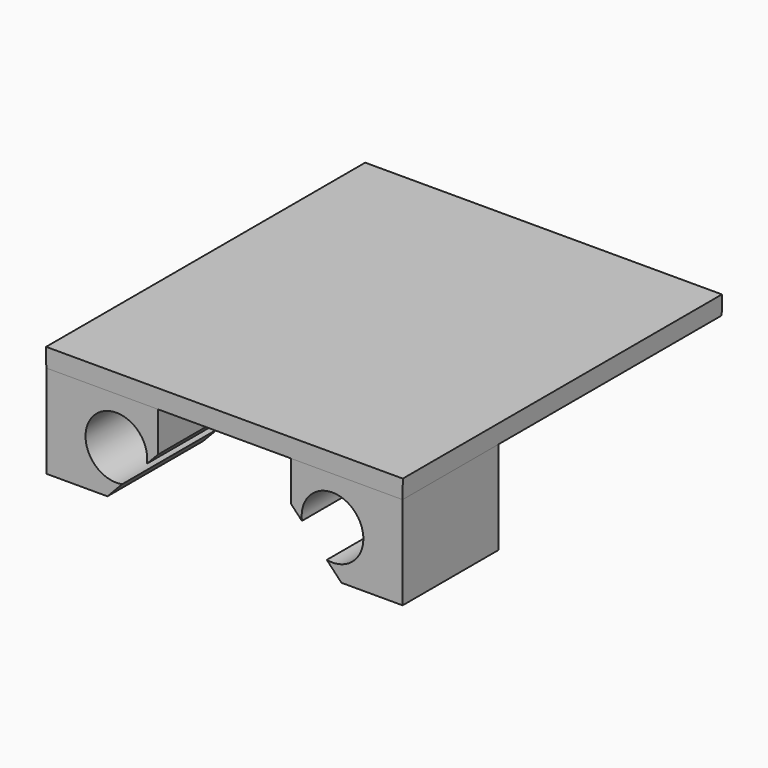
from build123d import *

# Parameters (mm, degrees)
F1_DEPTH = 45
F2_DEPTH = 150
F3_DEPTH = 45


with BuildPart() as f1:
    # F0 (on Front) → F1 (new body)
    with BuildSketch(Plane.XZ):
        with BuildLine():
            Line((-25, 20), (-25, 35))
            Line((-25, 35), (-67, 35))
            Line((-67, 35), (-67, 0))
            Line((-67, 0), (-44, 0))
            Line((-44, 0), (-38.490004, 5.799995))
            ThreePointArc((-38.490004, 5.799995), (-49.045883, 25.1979), (-29.132497, 15.650003))
            Line((-29.132497, 15.650003), (-25, 20))
        make_face()
        with BuildLine():
            Line((67, 35), (25, 35))
            Line((25, 35), (25, 20))
            Line((25, 20), (29.132497, 15.650003))
            ThreePointArc((29.132497, 15.650003), (49.045883, 25.1979), (38.490004, 5.799995))
            Line((38.490004, 5.799995), (44, 0))
            Line((44, 0), (67, 0))
            Line((67, 0), (67, 35))
        make_face()
    extrude(amount=-F1_DEPTH)


with BuildPart() as f2:
    # F0 (on Front) → F2 (new body)
    with BuildSketch(Plane.XZ):
        Polygon((0, 41.99961), (0, 35), (25, 35), (67, 35), (67.073896, 41.99961), align=None)
        Polygon((-25, 35), (0, 35), (0, 41.99961), (-67.073896, 41.99961), (-67, 35), align=None)
    extrude(amount=-F2_DEPTH)


with BuildPart() as f3:
    # F0 (on Front) → F3 (new body)
    with BuildSketch(Plane.XZ):
        with BuildLine():
            Line((-25, 20), (-25, 35))
            Line((-25, 35), (-67, 35))
            Line((-67, 35), (-67, 0))
            Line((-67, 0), (-44, 0))
            Line((-44, 0), (-38.490004, 5.799995))
            ThreePointArc((-38.490004, 5.799995), (-49.045883, 25.1979), (-29.132497, 15.650003))
            Line((-29.132497, 15.650003), (-25, 20))
        make_face()
        with BuildLine():
            Line((67, 35), (25, 35))
            Line((25, 35), (25, 20))
            Line((25, 20), (29.132497, 15.650003))
            ThreePointArc((29.132497, 15.650003), (49.045883, 25.1979), (38.490004, 5.799995))
            Line((38.490004, 5.799995), (44, 0))
            Line((44, 0), (67, 0))
            Line((67, 0), (67, 35))
        make_face()
    extrude(amount=-F3_DEPTH)


solid = Compound([f1.part, f2.part, f3.part])
